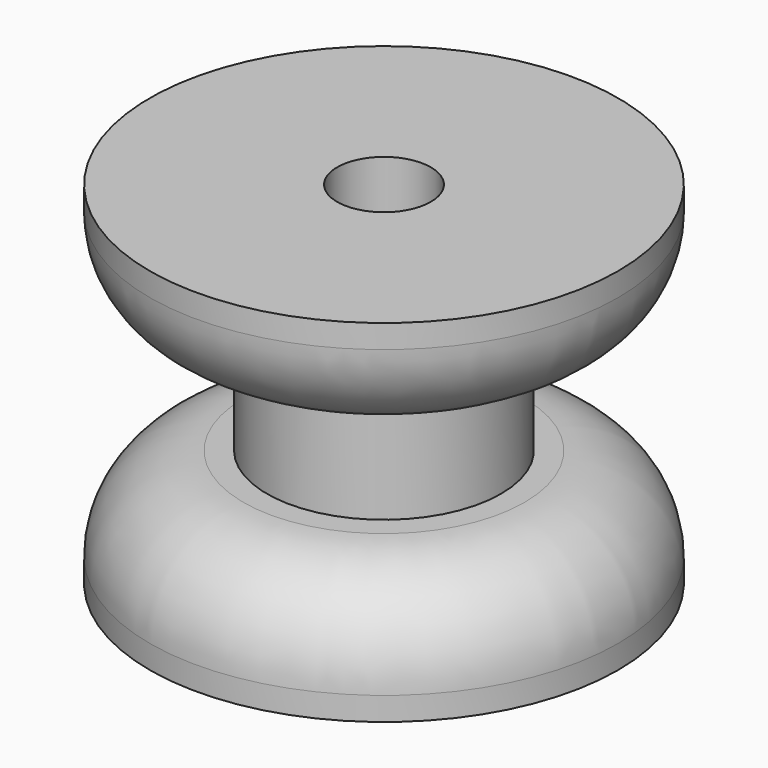
from build123d import *

# Parameters (mm, degrees)
F0_R     = 12.7
F1_DEPTH = 6.35
F2_R     = 6.35
F3_DEPTH = 6.35
F4_R     = 12.7
F4_R_2   = 6.35
F5_DEPTH = 6.35
F6_R     = 2.54
F7_DEPTH = 19.05
F8_R     = 5.08


with BuildPart() as f1:
    # F0 (on Top) → F1 (new body)
    with BuildSketch(Plane.XY):
        Circle(F0_R)
    extrude(amount=F1_DEPTH)

    # F2 (on face) → F3 (join)
    with BuildSketch(Plane.XY.offset(6.35)):
        Circle(F2_R)
    extrude(amount=F3_DEPTH)

    # F4 (on face) → F5 (join)
    with BuildSketch(Plane.XY.offset(12.7)):
        Circle(F4_R)
        Circle(F4_R_2, mode=Mode.SUBTRACT)
        Circle(F4_R_2)
    extrude(amount=F5_DEPTH)

    # F6 (on face) → F7 (cut)
    with BuildSketch(Plane.XY.offset(19.05)):
        Circle(F6_R)
    extrude(amount=-F7_DEPTH, mode=Mode.SUBTRACT)

    # F8
    f8_edges = [f1.edges().sort_by_distance(p)[0] for p in [
        (-12.7, 0, 12.7),
        (-12.7, 0, 6.35),
    ]]
    fillet(f8_edges, radius=F8_R)


solid = f1.part
